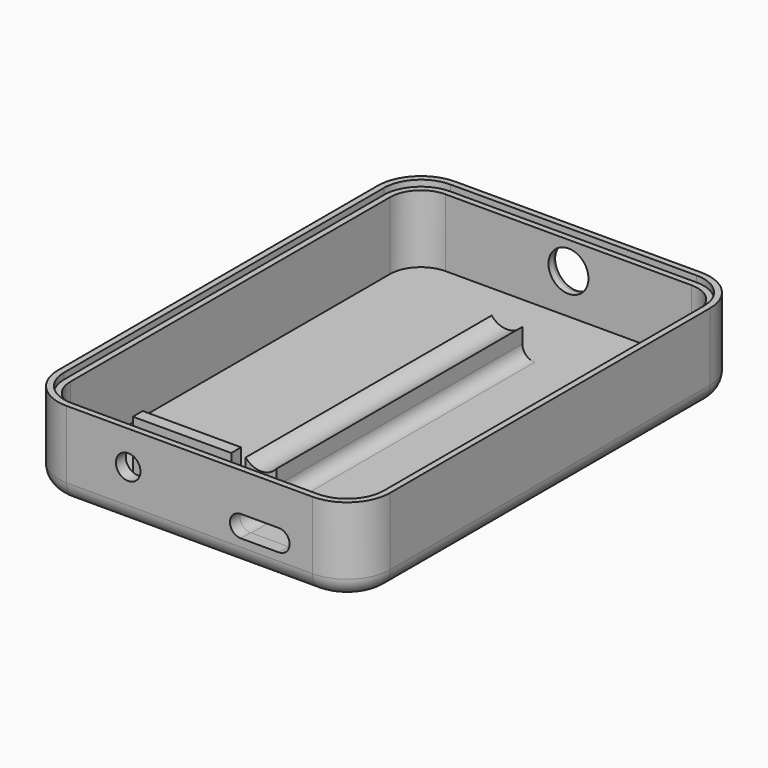
from build123d import *

# Parameters (mm, degrees)
PAD_DEPTH       = 2
PAD001_DEPTH    = 12
FILLET_R        = 3
SKETCH002_R     = 2
POCKET_DEPTH    = 5
POCKET003_DEPTH = 1
SKETCH016_W     = 16
SKETCH016_H     = 2
PAD007_DEPTH    = 10
FILLET002_R     = 3
PAD008_DEPTH    = 4
SKETCH019_R     = 3.25
POCKET005_DEPTH = 2
FILLET004_R     = 1
SKETCH020_W     = 5
SKETCH020_H     = 50
PAD009_DEPTH    = 8
FILLET005_R     = 2
SKETCH021_R     = 3.25
POCKET006_DEPTH = 50


with BuildPart() as part:
    # Sketch → Pad (new body)
    with BuildSketch(Plane.XY):
        with BuildLine():
            Line((-27, 32.5), (-27, -32.5))
            ThreePointArc((-27, -32.5), (-24.949747, -37.449747), (-20, -39.5))
            Line((-20, -39.5), (20, -39.5))
            ThreePointArc((20, -39.5), (24.949747, -37.449747), (27, -32.5))
            Line((27, -32.5), (27, 32.5))
            ThreePointArc((27, 32.5), (24.949747, 37.449747), (20, 39.5))
            Line((20, 39.5), (-20, 39.5))
            ThreePointArc((-20, 39.5), (-24.949747, 37.449747), (-27, 32.5))
        make_face()
    extrude(amount=PAD_DEPTH)

    # Sketch001 (on Face10 of Pad) → Pad001 (join)
    with BuildSketch(Plane.XY.offset(2)):
        with BuildLine():
            Line((-27, 32.5), (-27, -32.5))
            ThreePointArc((-27, -32.5), (-24.949747, -37.449747), (-20, -39.5))
            Line((-20, -39.5), (20, -39.5))
            ThreePointArc((20, -39.5), (24.949747, -37.449747), (27, -32.5))
            Line((27, -32.5), (27, 32.5))
            ThreePointArc((27, 32.5), (24.949747, 37.449747), (20, 39.5))
            Line((20, 39.5), (-20, 39.5))
            ThreePointArc((-20, 39.5), (-24.949747, 37.449747), (-27, 32.5))
        make_face()
        with BuildLine():
            Line((-25, 32.5), (-25, -32.5))
            ThreePointArc((-25, -32.5), (-23.535534, -36.035534), (-20, -37.5))
            Line((-20, -37.5), (20, -37.5))
            ThreePointArc((20, -37.5), (23.535534, -36.035534), (25, -32.5))
            Line((25, -32.5), (25, 32.5))
            ThreePointArc((25, 32.5), (23.535534, 36.035534), (20, 37.5))
            Line((20, 37.5), (-20, 37.5))
            ThreePointArc((-20, 37.5), (-23.535534, 36.035534), (-25, 32.5))
        make_face(mode=Mode.SUBTRACT)
    extrude(amount=PAD001_DEPTH)

    # Fillet
    fillet_edges = [part.edges().sort_by_distance(p)[0] for p in [
        (0, -39.5, 0),
    ]]
    fillet(fillet_edges, radius=FILLET_R)

    # Sketch002 (on Face10 of Fillet) → Pocket (cut)
    with BuildSketch(Plane.XZ.offset(39.5)):
        with Locations((-10, 8.5)):
            Circle(SKETCH002_R)
        with BuildLine():
            ThreePointArc((8.3, 7.75), (6.55, 6), (8.3, 4.25))
            Line((8.3, 4.25), (14.5, 4.25))
            ThreePointArc((14.5, 4.25), (16.25, 6), (14.5, 7.75))
            Line((8.3, 7.75), (14.5, 7.75))
        make_face()
    extrude(amount=-POCKET_DEPTH, mode=Mode.SUBTRACT)

    # Sketch007 → Pocket003 (cut)
    with BuildSketch(Plane.XY.offset(14)):
        with BuildLine():
            Line((-26, 32.5), (-26, -32.5))
            ThreePointArc((-26, -32.5), (-24.242641, -36.742641), (-20, -38.5))
            Line((-20, -38.5), (20, -38.5))
            ThreePointArc((20, -38.5), (24.242641, -36.742641), (26, -32.5))
            Line((26, -32.5), (26, 32.5))
            ThreePointArc((26, 32.5), (24.242641, 36.742641), (20, 38.5))
            Line((20, 38.5), (-20, 38.5))
            ThreePointArc((-20, 38.5), (-24.242641, 36.742641), (-26, 32.5))
        make_face()
        with BuildLine():
            Line((-25, 32.5), (-25, -32.5))
            ThreePointArc((-25, -32.5), (-23.535534, -36.035534), (-20, -37.5))
            Line((-20, -37.5), (20, -37.5))
            ThreePointArc((20, -37.5), (23.535534, -36.035534), (25, -32.5))
            Line((25, -32.5), (25, 32.5))
            ThreePointArc((25, 32.5), (23.535534, 36.035534), (20, 37.5))
            Line((20, 37.5), (-20, 37.5))
            ThreePointArc((-20, 37.5), (-23.535534, 36.035534), (-25, 32.5))
        make_face(mode=Mode.SUBTRACT)
    extrude(amount=-POCKET003_DEPTH, mode=Mode.SUBTRACT)

    # Sketch016 (on Face34 of Pocket003) → Pad007 (join)
    with BuildSketch(Plane.XY.offset(2)):
        with Locations((-6, -32.55)):
            Rectangle(SKETCH016_W, SKETCH016_H)
    extrude(amount=PAD007_DEPTH)

    # Fillet002
    fillet002_edges = [part.edges().sort_by_distance(p)[0] for p in [
        (-6, -31.55, 2),
    ]]
    fillet(fillet002_edges, radius=FILLET002_R)

    # Sketch017 (on Face12 of Fillet002) → Pad008 (join)
    with BuildSketch(Plane(origin=(0, -37.5, 0), x_dir=(-1, 0, 0), z_dir=(0, 1, 0))):
        with BuildLine():
            ThreePointArc((-14.5, 8.25), (-16.75, 6), (-14.5, 3.75))
            Line((-14.5, 3.75), (-8.3, 3.75))
            ThreePointArc((-8.3, 3.75), (-6.05, 6), (-8.3, 8.25))
            Line((-14.5, 8.25), (-8.3, 8.25))
        make_face()
        with BuildLine():
            ThreePointArc((-14.5, 7.85), (-16.35, 6), (-14.5, 4.15))
            Line((-14.5, 4.15), (-8.3, 4.15))
            ThreePointArc((-8.3, 4.15), (-6.45, 6), (-8.3, 7.85))
            Line((-14.5, 7.85), (-8.3, 7.85))
        make_face(mode=Mode.SUBTRACT)
    extrude(amount=PAD008_DEPTH)

    # Sketch019 (on Face46 of Pad008) → Pocket005 (cut)
    with BuildSketch(Plane(origin=(0, 39.5, 0), x_dir=(-1, 0, 0), z_dir=(0, 1, 0))):
        with Locations((0, 8.5)):
            Circle(SKETCH019_R)
    extrude(amount=-POCKET005_DEPTH, mode=Mode.SUBTRACT)

    # Fillet004
    fillet004_edges = [part.edges().sort_by_distance(p)[0] for p in [
        (3.25, 39.5, 8.5),
    ]]
    fillet(fillet004_edges, radius=FILLET004_R)

    # Sketch020 (on Face5 of Fillet004) → Pad009 (join)
    with BuildSketch(Plane.XY.offset(2)):
        Rectangle(SKETCH020_W, SKETCH020_H)
    extrude(amount=PAD009_DEPTH)

    # Fillet005
    fillet005_edges = [part.edges().sort_by_distance(p)[0] for p in [
        (2.5, 0, 2),
        (-2.5, 0, 2),
    ]]
    fillet(fillet005_edges, radius=FILLET005_R)

    # Sketch021 (on Face4 of Fillet005) → Pocket006 (cut)
    with BuildSketch(Plane(origin=(0, 25, 0), x_dir=(-1, 0, 0), z_dir=(0, 1, 0))):
        with Locations((0, 8.5)):
            Circle(SKETCH021_R)
    extrude(amount=-POCKET006_DEPTH, mode=Mode.SUBTRACT)


solid = part.part
